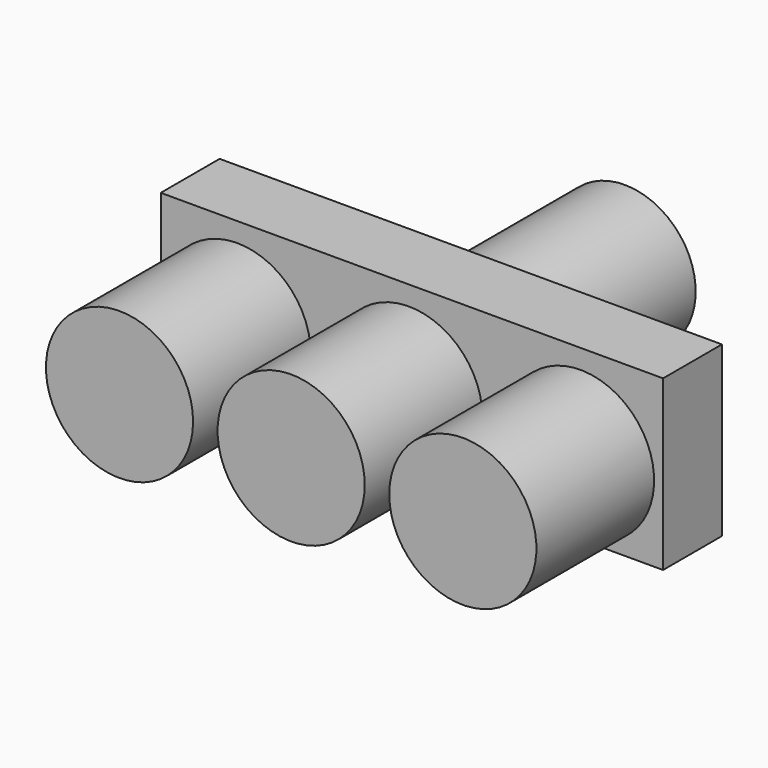
from build123d import *

# Parameters (mm, degrees)
F0_R     = 38.1
F1_DEPTH = 76.2
F2_W     = 260.124684
F2_H     = 87.384194
F3_DEPTH = 38.1
F4_R     = 36.768627
F5_DEPTH = 101.6


with BuildPart() as f1:
    # F0 (on Front) → F1 (new body)
    with BuildSketch(Plane.XZ):
        with BuildLine():
            ThreePointArc((-38.1, 0), (0, -38.1), (38.1, 0))
            ThreePointArc((38.1, 0), (0, 38.1), (-38.1, 0))
        make_face()
        with Locations((-88.9, 0)):
            Circle(F0_R)
        with BuildLine():
            ThreePointArc((127, 0), (88.9, 38.1), (50.8, 0))
            ThreePointArc((50.8, 0), (88.9, -38.1), (127, 0))
        make_face()
    extrude(amount=F1_DEPTH)


with BuildPart() as f3:
    # F2 (on Front) → F3 (new body)
    with BuildSketch(Plane.XZ):
        with Locations((1.567021, 4.424516)):
            Rectangle(F2_W, F2_H)
    extrude(amount=-F3_DEPTH)

    # F4 (on face) → F5 (join)
    with BuildSketch(Plane(origin=(0, 38.1, 0), x_dir=(-1, 0, 0), z_dir=(0, 1, 0))):
        Circle(F4_R)
    extrude(amount=F5_DEPTH)


solid = Compound([f1.part, f3.part])
